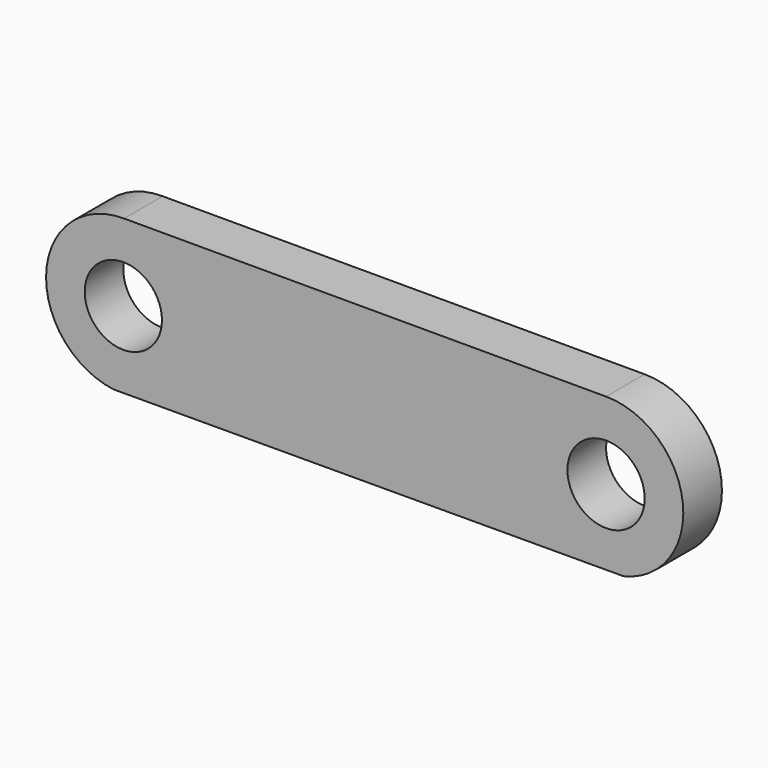
from build123d import *

# Parameters (mm, degrees)
F0_R     = 2
F1_DEPTH = 2.5


with BuildPart() as f1:
    # F0 (on Front) → F1 (new body)
    with BuildSketch(Plane.XZ):
        with BuildLine():
            Line((12.596618, 4), (-12.363835, 3.999805))
            ThreePointArc((-12.363835, 3.999805), (-16.394213, 0.270214), (-12.903364, -3.968625))
            Line((-12.903364, -3.968625), (-11.881677, -3.965836))
            Line((-11.881677, -3.965836), (11.71409, -3.901421))
            Line((11.71409, -3.901421), (13.500497, -3.896544))
            ThreePointArc((13.500497, -3.896544), (16.5707, 0.45489), (12.596618, 4))
        make_face()
        with Locations((-12.40335, 0)):
            Circle(F0_R, mode=Mode.SUBTRACT)
        with BuildLine():
            ThreePointArc((14.59665, 0), (12.59665, -2), (10.59665, 0))
            ThreePointArc((10.59665, 0), (12.59665, 2), (14.59665, 0))
        make_face(mode=Mode.SUBTRACT)
    extrude(amount=F1_DEPTH)


solid = f1.part
